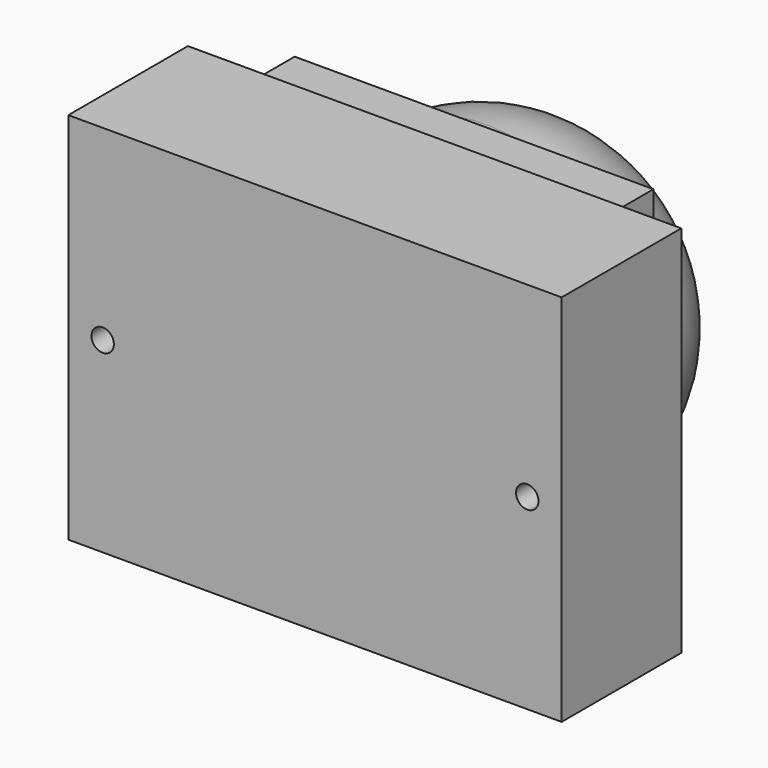
from build123d import *

# Parameters (mm, degrees)
F0_W     = 24
F0_H     = 24
F1_DEPTH = 10
F2_DEPTH = 3.3
F3_R     = 11.5
F4_DEPTH = 11
F5_R     = 10
F6_DEPTH = 10


with BuildPart() as f1:
    # F0 (on Front) → F1 (new body)
    with BuildSketch(Plane.XZ):
        with BuildLine():
            ThreePointArc((14.95, 0), (14.73033, 0.53033), (14.2, 0.75))
            ThreePointArc((14.2, 0.75), (13.66967, -0.53033), (14.95, 0))
        make_face()
        with BuildLine():
            ThreePointArc((-13.45, 0), (-13.66967, 0.53033), (-14.2, 0.75))
            ThreePointArc((-14.2, 0.75), (-14.73033, -0.53033), (-13.45, 0))
        make_face()
        Polygon((-16.5, -12.5), (16.5, -12.5), (16.5, 12.5), (14.2, 12.5), (-14.2, 12.5), (-16.5, 12.5), align=None)
        with BuildLine():
            ThreePointArc((-13.45, 0), (-14.73033, -0.53033), (-14.2, 0.75))
            ThreePointArc((-14.2, 0.75), (-13.66967, 0.53033), (-13.45, 0))
        make_face(mode=Mode.SUBTRACT)
        Rectangle(F0_W, F0_H, mode=Mode.SUBTRACT)
        with BuildLine():
            ThreePointArc((14.95, 0), (13.66967, -0.53033), (14.2, 0.75))
            ThreePointArc((14.2, 0.75), (14.73033, 0.53033), (14.95, 0))
        make_face(mode=Mode.SUBTRACT)
        Rectangle(F0_W, F0_H)
    extrude(amount=F1_DEPTH)

    # F0 (on Front) → F2 (join)
    with BuildSketch(Plane.XZ):
        Rectangle(F0_W, F0_H)
    extrude(amount=-F2_DEPTH)

    # F3 (on face) → F4 (join)
    with BuildSketch(Plane(origin=(0, 3.3, 0), x_dir=(-1, 0, 0), z_dir=(0, 1, 0))):
        Circle(F3_R)
    extrude(amount=F4_DEPTH)

    # F5
    f5_edges = [f1.edges().sort_by_distance(p)[0] for p in [
        (11.5, 14.3, 0),
    ]]
    fillet(f5_edges, radius=F5_R)

    # F0 (on Front) → F6 (cut)
    with BuildSketch(Plane.XZ):
        with BuildLine():
            ThreePointArc((14.95, 0), (14.73033, 0.53033), (14.2, 0.75))
            ThreePointArc((14.2, 0.75), (13.66967, -0.53033), (14.95, 0))
        make_face()
        with BuildLine():
            ThreePointArc((-13.45, 0), (-13.66967, 0.53033), (-14.2, 0.75))
            ThreePointArc((-14.2, 0.75), (-14.73033, -0.53033), (-13.45, 0))
        make_face()
    extrude(amount=F6_DEPTH, mode=Mode.SUBTRACT)


solid = f1.part
